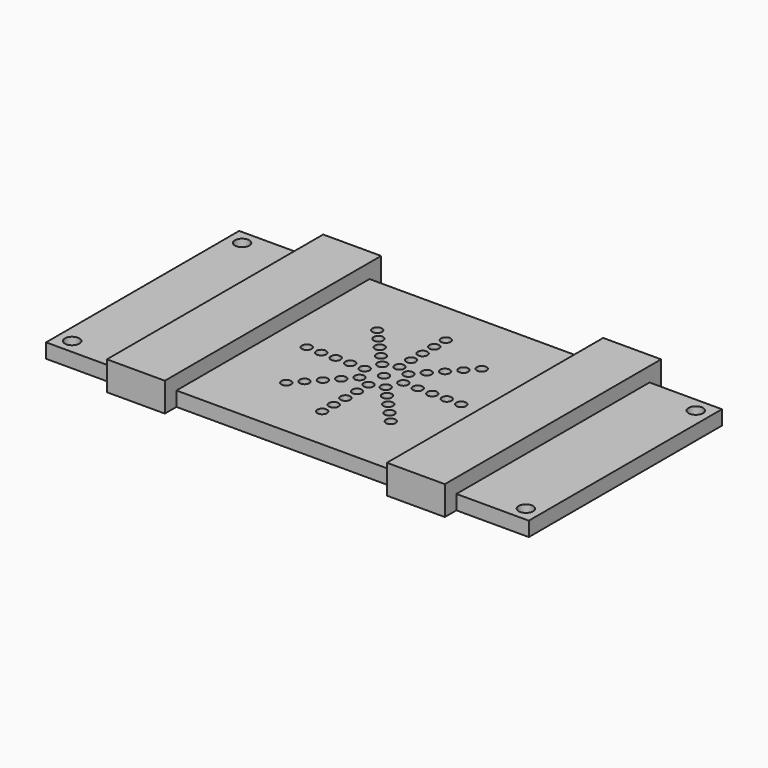
from build123d import *

# Parameters (mm, degrees)
F1_DEPTH = 3
F2_W     = 12
F2_H     = 56
F3_DEPTH = 3
F4_D     = 3
F6_D     = 2


with BuildPart() as f1:
    # F0 (on Top) → F1 (new body)
    with BuildSketch(Plane.XY):
        Polygon((-78.133352, 32.29949), (-93.133352, 32.29949), (-93.133352, -17.70051), (-78.133352, -17.70051), (-78.133352, -20.70051), (-66.133352, -20.70051), (-66.133352, -17.70051), (-20.133352, -17.70051), (-20.133352, -20.70051), (-8.133352, -20.70051), (-8.133352, -17.70051), (6.866648, -17.70051), (6.866648, 32.29949), (-8.133352, 32.29949), (-8.133352, 35.29949), (-20.133352, 35.29949), (-20.133352, 32.29949), (-66.133352, 32.29949), (-66.133352, 35.29949), (-78.133352, 35.29949), align=None)
    extrude(amount=F1_DEPTH)

    # F2 (on face) → F3 (join)
    with BuildSketch(Plane.XY.offset(3)):
        Polygon((-78.133352, 35.29949), (-78.133352, 32.29949), (-78.133352, -17.70051), (-78.133352, -20.70051), (-66.133352, -20.70051), (-66.133352, -17.70051), (-66.133352, 35.29949), align=None)
        with Locations((-14.133352, 7.29949)):
            Rectangle(F2_W, F2_H)
    extrude(amount=F3_DEPTH)

    # F4 (through all)
    with Locations(Plane.XY.offset(3)):
        with Locations((-90.133352, -14.70051), (-90.133352, 29.29949), (3.866648, -14.70051), (3.866648, 29.29949)):
            Hole(F4_D / 2)

    # F6 (through all)
    with Locations(Plane.XY.offset(3)):
        with Locations((-53.966256, 19.074386), (-43.133352, 23.29949), (-32.300447, 19.074386), (-27.133352, 7.29949), (-32.300447, -4.475406), (-34.331617, -2.267613), (-36.362787, -0.05982), (-38.393956, 2.147973), (-40.425126, 4.355766), (-39.133352, 7.29949), (-36.133352, 7.29949), (-33.133352, 7.29949), (-30.133352, 7.29949), (-40.425126, 10.243214), (-38.393956, 12.451007), (-36.362787, 14.6588), (-34.331617, 16.866593), (-43.133352, 11.29949), (-43.133352, 14.29949), (-43.133352, 17.29949), (-43.133352, 20.29949), (-51.935087, 16.866593), (-49.903917, 14.6588), (-47.872748, 12.451007), (-45.841578, 10.243214), (-47.133352, 7.29949), (-45.841578, 4.355766), (-43.133352, 3.29949), (-43.133352, 0.29949), (-43.133352, -2.70051), (-43.133352, -5.70051), (-43.133352, -8.70051), (-53.966256, -4.475406), (-51.935087, -2.267613), (-49.903917, -0.05982), (-47.872748, 2.147973), (-50.133352, 7.29949), (-53.133352, 7.29949), (-56.133352, 7.29949), (-59.133352, 7.29949), (-43.133352, 7.29949)):
            Hole(F6_D / 2)


solid = f1.part
